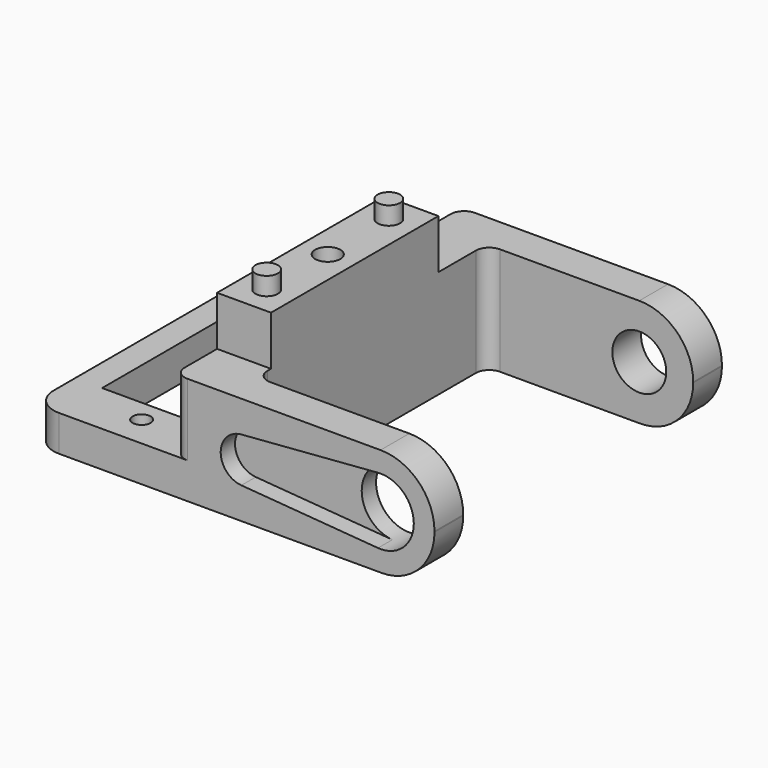
from build123d import *

# Parameters (mm, degrees)
PAD_DEPTH       = 12
SKETCH001_R     = 3.7
POCKET_DEPTH    = 5
SKETCH002_R     = 3
POCKET001_DEPTH = 5
POCKET002_DEPTH = 2
SKETCH004_W     = 21.8
SKETCH004_H     = 35.3
SKETCH004_R     = 1
SKETCH004_W_2   = 12.8
SKETCH004_H_2   = 23.3
PAD001_DEPTH    = 4
FILLET_R        = 3
FILLET001_R     = 3
SKETCH005_W     = 6
SKETCH005_H     = 23.3
PAD002_DEPTH    = 13.5
SKETCH006_R     = 1.25
PAD003_DEPTH    = 2
SKETCH007_R     = 1.4
POCKET003_DEPTH = 11
FILLET002_R     = 6
FILLET003_R     = 6
FILLET004_R     = 5.9
FILLET005_R     = 5.9


with BuildPart() as part:
    # Sketch → Pad (new body)
    with BuildSketch(Plane.XY):
        with BuildLine():
            Line((1.5, 20), (29, 20))
            Line((29, 20), (29, 16))
            Line((29, 16), (7.5, 16))
            ThreePointArc((7.5, 16), (6.43934, 15.56066), (6, 14.5))
            Line((6, 14.5), (6, -14.5))
            ThreePointArc((6, -14.5), (6.43934, -15.56066), (7.5, -16))
            Line((7.5, -16), (29, -16))
            Line((29, -16), (29, -20))
            Line((29, -20), (1.5, -20))
            ThreePointArc((0, -18.5), (0.43934, -19.56066), (1.5, -20))
            Line((0, -18.5), (0, 18.5))
            ThreePointArc((1.5, 20), (0.43934, 19.56066), (0, 18.5))
        make_face()
    extrude(amount=PAD_DEPTH)

    # Sketch001 (on Face9 of Pad) → Pocket (cut)
    with BuildSketch(Plane.XZ.offset(20)):
        with Locations((23, 6)):
            Circle(SKETCH001_R)
    extrude(amount=-POCKET_DEPTH, mode=Mode.SUBTRACT)

    # Sketch002 (on Face1 of Pocket) → Pocket001 (cut)
    with BuildSketch(Plane(origin=(0, 20, 0), x_dir=(-1, 0, 0), z_dir=(0, 1, 0))):
        with Locations((-23, 6)):
            Circle(SKETCH002_R)
    extrude(amount=-POCKET001_DEPTH, mode=Mode.SUBTRACT)

    # Sketch003 (on Face14 of Pocket001) → Pocket002 (cut)
    with BuildSketch(Plane.XZ.offset(20)):
        with BuildLine():
            ThreePointArc((7.503922, 8.492299), (5.2, 6), (7.503922, 3.507701))
            Line((7.503922, 3.507701), (22.709804, 2.311398))
            ThreePointArc((22.709804, 2.311398), (26.7, 6), (22.709804, 9.688602))
            Line((22.709804, 9.688602), (7.503922, 8.492299))
        make_face()
    extrude(amount=-POCKET002_DEPTH, mode=Mode.SUBTRACT)

    # Sketch004 (on Face3 of Pocket002) → Pad001 (join)
    with BuildSketch(Plane(origin=(0, 0, 0), x_dir=(1, 0, 0), z_dir=(0, 0, -1))):
        with Locations((-4.9, 2.35)):
            Rectangle(SKETCH004_W, SKETCH004_H)
        with Locations((-6.4, -11.8)):
            Circle(SKETCH004_R, mode=Mode.SUBTRACT)
        with Locations((-6.4, 16.5)):
            Circle(SKETCH004_R, mode=Mode.SUBTRACT)
        with Locations((-6.4, 2.35)):
            Rectangle(SKETCH004_W_2, SKETCH004_H_2, mode=Mode.SUBTRACT)
    extrude(amount=-PAD001_DEPTH)

    # Fillet
    fillet_edges = [part.edges().sort_by_distance(p)[0] for p in [
        (-15.8, -20, 2),
    ]]
    fillet(fillet_edges, radius=FILLET_R)

    # Fillet001
    fillet001_edges = [part.edges().sort_by_distance(p)[0] for p in [
        (-15.8, 15.3, 2),
    ]]
    fillet(fillet001_edges, radius=FILLET001_R)

    # Sketch005 (on Face1 of Fillet001) → Pad002 (join)
    with BuildSketch(Plane.XY.offset(4)):
        with Locations((3, -2.35)):
            Rectangle(SKETCH005_W, SKETCH005_H)
    extrude(amount=PAD002_DEPTH)

    # Sketch006 (on Face47 of Pad002) → Pad003 (join)
    with BuildSketch(Plane.XY.offset(17.5)):
        with Locations((3, 6.15)):
            Circle(SKETCH006_R)
        with Locations((3, -10.85)):
            Circle(SKETCH006_R)
    extrude(amount=PAD003_DEPTH)

    # Sketch007 (on Face47 of Pad003) → Pocket003 (cut)
    with BuildSketch(Plane.XY.offset(17.5)):
        with Locations((3, -2.35)):
            Circle(SKETCH007_R)
    extrude(amount=-POCKET003_DEPTH, mode=Mode.SUBTRACT)

    # Fillet002
    fillet002_edges = [part.edges().sort_by_distance(p)[0] for p in [
        (29, -18, 12),
    ]]
    fillet(fillet002_edges, radius=FILLET002_R)

    # Fillet003
    fillet003_edges = [part.edges().sort_by_distance(p)[0] for p in [
        (29, 18, 12),
    ]]
    fillet(fillet003_edges, radius=FILLET003_R)

    # Fillet004
    fillet004_edges = [part.edges().sort_by_distance(p)[0] for p in [
        (29, -18, 0),
    ]]
    fillet(fillet004_edges, radius=FILLET004_R)

    # Fillet005
    fillet005_edges = [part.edges().sort_by_distance(p)[0] for p in [
        (29, 18, 0),
    ]]
    fillet(fillet005_edges, radius=FILLET005_R)


solid = part.part
